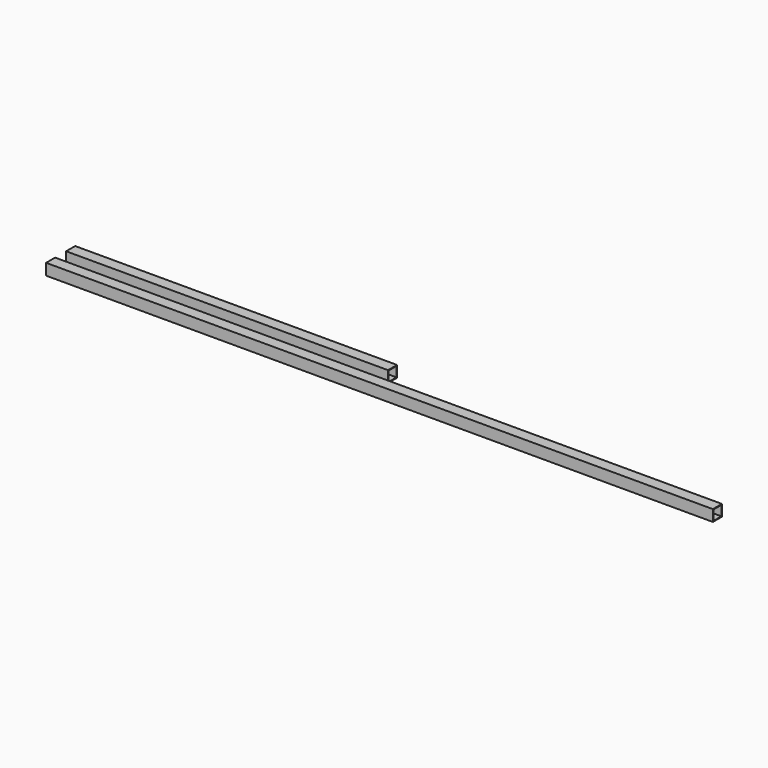
from build123d import *

# Parameters (mm, degrees)
F0_W     = 25
F0_H     = 25
F1_DEPTH = 711.2
F2_W     = 22
F2_H     = 22
F3_DEPTH = 711.201
F6_W     = 25
F6_H     = 25
F7_DEPTH = 1473.2
F8_W     = 22
F8_H     = 22
F9_DEPTH = 1473.201


with BuildPart() as f1:
    # F0 (on Right) → F1 (new body)
    with BuildSketch(Plane.YZ):
        with Locations((12.5, 12.5)):
            Rectangle(F0_W, F0_H)
    extrude(amount=F1_DEPTH)

    # F2 (on face) → F3 (cut, through all)
    with BuildSketch(Plane.YZ.offset(711.2)):
        with Locations((12.5, 12.5)):
            Rectangle(F2_W, F2_H)
    extrude(amount=-F3_DEPTH, mode=Mode.SUBTRACT)


with BuildPart() as f4_1:
    # F4: copy of F1
    add(f1.part.moved(Location((0, 100, 0))))


with BuildPart() as f7:
    # F6 (on Right) → F7 (new body)
    with BuildSketch(Plane.YZ):
        with Locations((-42.809443, 12.5)):
            Rectangle(F6_W, F6_H)
    extrude(amount=F7_DEPTH)

    # F8 (on face) → F9 (cut, through all)
    with BuildSketch(Plane(origin=(0, 0, 0), x_dir=(0, -1, 0), z_dir=(-1, 0, 0))):
        with Locations((42.809443, 12.5)):
            Rectangle(F8_W, F8_H)
    extrude(amount=-F9_DEPTH, mode=Mode.SUBTRACT)


solid = Compound([f1.part, f7.part])
